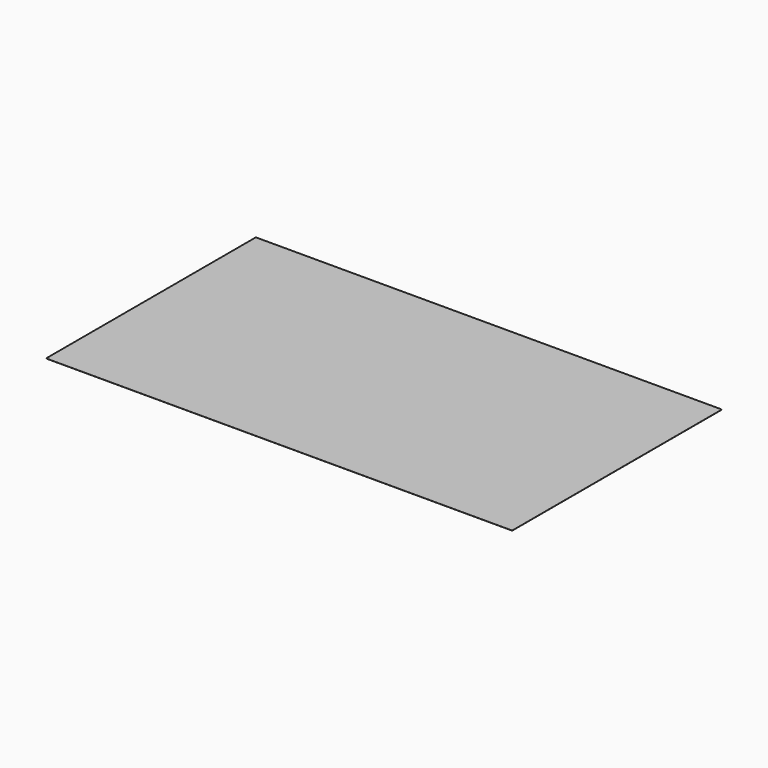
from build123d import *

# Parameters (mm, degrees)
BOX_W     = 48
BOX_H     = 27
BOX_DEPTH = 0.01


with BuildPart() as part:
    # Box → Box (new body)
    with BuildSketch(Plane.XY):
        with Locations((24, 13.5)):
            Rectangle(BOX_W, BOX_H)
    extrude(amount=BOX_DEPTH)


solid = part.part
